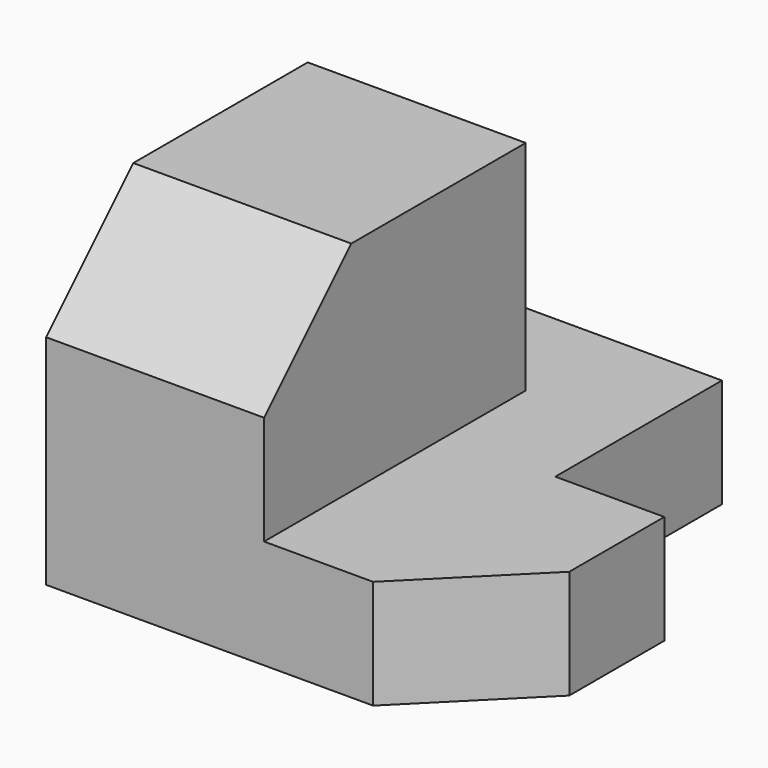
from build123d import *

# Parameters (mm, degrees)
F1_DEPTH = 10
F2_W     = 20
F2_H     = 30
F3_DEPTH = 20
F4_SIZE2 = 10
F4_SIZE  = 10


with BuildPart() as f1:
    # F0 (on Top) → F1 (new body)
    with BuildSketch(Plane.XY):
        Polygon((0, 40), (0, 0), (30, 0), (40, 10), (40, 20.892855), (30, 20.892855), (30, 40), align=None)
    extrude(amount=F1_DEPTH)

    # F2 (on face) → F3 (join)
    with BuildSketch(Plane.XY.offset(10)):
        with Locations((10, 15)):
            Rectangle(F2_W, F2_H)
    extrude(amount=F3_DEPTH)

    # F4
    f4_edges = [f1.edges().sort_by_distance(p)[0] for p in [
        (10, 0, 30),
    ]]
    chamfer(f4_edges, length=F4_SIZE, length2=F4_SIZE2)


solid = f1.part
